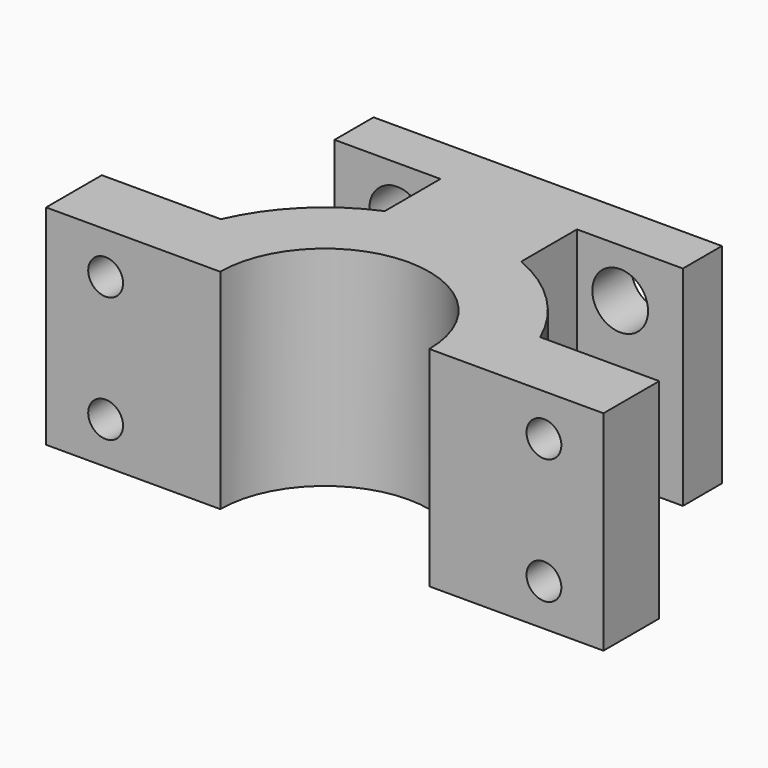
from build123d import *

# Parameters (mm, degrees)
F1_DEPTH = 15
F2_R     = 2.5
F3_DEPTH = 15
F4_R     = 4.5
F4_R_2   = 2.5
F5_DEPTH = 3
F7_DEPTH = 30
F8_R     = 4
F9_DEPTH = 8


with BuildPart() as f1:
    # F0 (on Top) → F1 (new body, symmetric)
    with BuildSketch(Plane.XY):
        with BuildLine():
            ThreePointArc((-15, 0), (0, 15), (15, 0))
            Line((15, 0), (40, 0))
            Line((40, 0), (40, 10))
            Line((40, 10), (22.912878, 10))
            ThreePointArc((22.912878, 10), (0, 25), (-22.912878, 10))
            Line((-22.912878, 10), (-40, 10))
            Line((-40, 10), (-40, 0))
            Line((-40, 0), (-15, 0))
        make_face()
    extrude(amount=F1_DEPTH, both=True)

    # F2 (on face) → F3 (cut)
    with BuildSketch(Plane(origin=(0, 10, 0), x_dir=(-1, 0, 0), z_dir=(0, 1, 0))):
        with Locations((-31.456439, 9)):
            Circle(F2_R)
        with Locations((-31.456439, -9)):
            Circle(F2_R)
        with Locations((31.456439, -9)):
            Circle(F2_R)
        with Locations((31.456439, 9)):
            Circle(F2_R)
    extrude(amount=-F3_DEPTH, mode=Mode.SUBTRACT)

    # F4 (on face) → F5 (cut)
    with BuildSketch(Plane(origin=(0, 10, 0), x_dir=(-1, 0, 0), z_dir=(0, 1, 0))):
        with Locations((31.456439, 9)):
            Circle(F4_R)
        with Locations((31.456439, 9)):
            Circle(F4_R_2, mode=Mode.SUBTRACT)
        with Locations((31.456439, -9)):
            Circle(F4_R)
        with Locations((-31.456439, -9)):
            Circle(F4_R)
        with Locations((-31.456439, 9)):
            Circle(F4_R)
    extrude(amount=-F5_DEPTH, mode=Mode.SUBTRACT)

    # F6 (on face) → F7 (join)
    with BuildSketch(Plane.XY.offset(15)):
        Polygon((-9.797959, 33), (-9.797959, 23), (9.797959, 23), (9.797959, 33), (0, 33), align=None)
        Polygon((-25, 33), (-9.797959, 33), (0, 33), (0, 40), (-25, 40), align=None)
        Polygon((0, 33), (9.797959, 33), (25, 33), (25, 40), (0, 40), align=None)
    extrude(amount=-F7_DEPTH)

    # F8 (on face) → F9 (cut)
    with BuildSketch(Plane(origin=(0, 40, 0), x_dir=(-1, 0, 0), z_dir=(0, 1, 0))):
        with Locations((16, 8)):
            Circle(F8_R)
        with Locations((16, -8)):
            Circle(F8_R)
        with Locations((-16, -8)):
            Circle(F8_R)
        with Locations((-16, 8)):
            Circle(F8_R)
    extrude(amount=-F9_DEPTH, mode=Mode.SUBTRACT)


solid = f1.part
